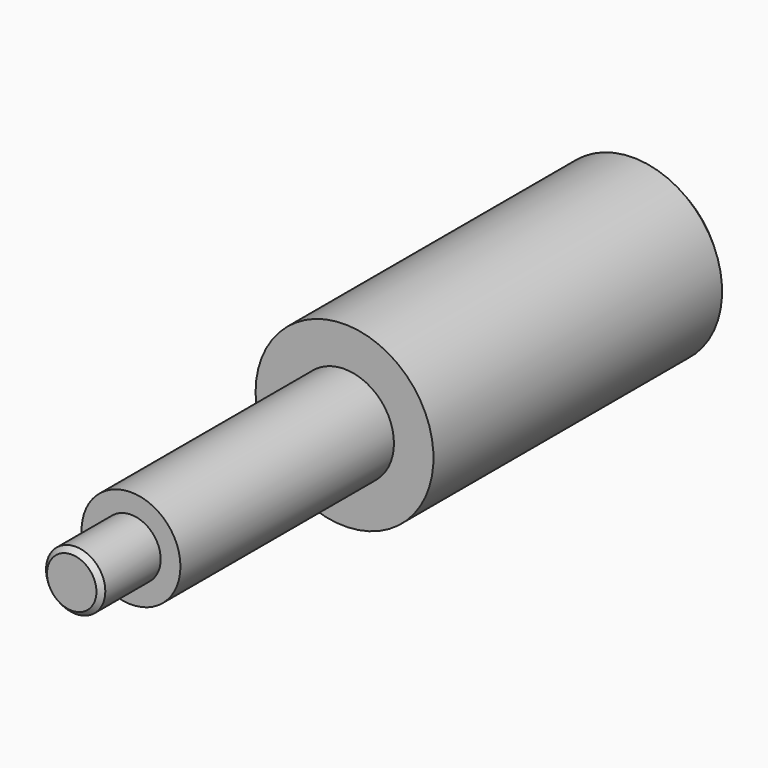
from build123d import *

# Parameters (mm, degrees)
F0_R     = 10
F1_DEPTH = 54
F2_R     = 6
F3_DEPTH = 15
F4_R     = 18
F5_DEPTH = 75
F6_SIZE  = 2
F7_SIZE  = 1


with BuildPart() as f1:
    # F0 (on Front) → F1 (new body)
    with BuildSketch(Plane.XZ):
        Circle(F0_R)
    extrude(amount=F1_DEPTH)

    # F2 (on face) → F3 (join)
    with BuildSketch(Plane.XZ.offset(54)):
        Circle(F2_R)
    extrude(amount=F3_DEPTH)

    # F4 (on face) → F5 (join)
    with BuildSketch(Plane(origin=(0, 0, 0), x_dir=(-1, 0, 0), z_dir=(0, 1, 0))):
        Circle(F4_R)
    extrude(amount=F5_DEPTH)

    # F6
    f6_edges = [f1.edges().sort_by_distance(p)[0] for p in [
        (18, 75, 0),
    ]]
    chamfer(f6_edges, length=F6_SIZE)

    # F7
    f7_edges = [f1.edges().sort_by_distance(p)[0] for p in [
        (-6, -69, 0),
    ]]
    chamfer(f7_edges, length=F7_SIZE)


solid = f1.part
